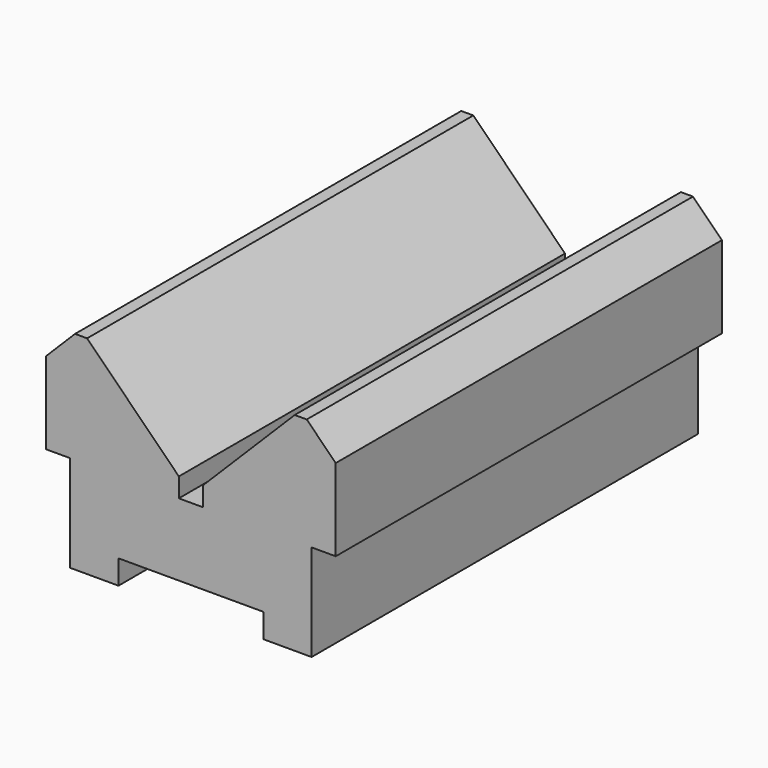
from build123d import *

# Parameters (mm, degrees)
F1_DEPTH = 50


with BuildPart() as f1:
    # F0 (on Front) → F1 (new body, symmetric)
    with BuildSketch(Plane.XZ):
        Polygon((2.5, -8.212121), (0, -8.212121), (-2.5, -8.212121), (-2.5, -4.212121), (-21.5, 14.787879), (-24, 14.787879), (-30, 8.787879), (-30, -8.212121), (-25, -8.212121), (-25, -28.212121), (-15, -28.212121), (-15, -23.212121), (0, -23.212121), (15, -23.212121), (15, -28.212121), (25, -28.212121), (25, -8.212121), (30, -8.212121), (30, 8.787879), (24, 14.787879), (21.5, 14.787879), (2.5, -4.212121), align=None)
    extrude(amount=F1_DEPTH, both=True)


solid = f1.part
